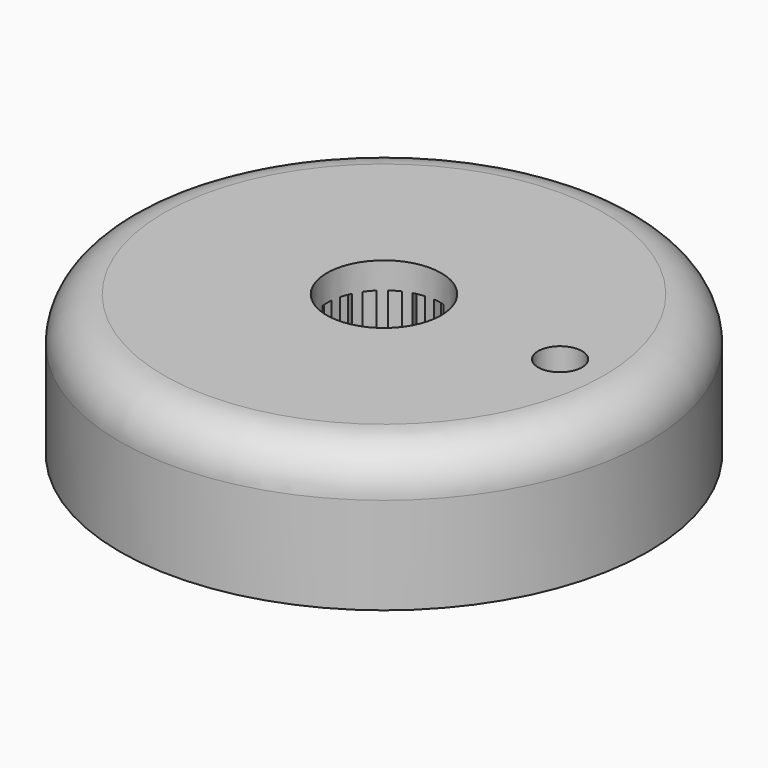
from build123d import *

# Parameters (mm, degrees)
F1_R      = 30
F2_DEPTH  = 16
F3_DEPTH  = 13
F4_R      = 6.5
F5_DEPTH  = 16.001
F6_R      = 2.5
F7_DEPTH  = 16.001
F8_R      = 5
F9_R      = 27.5
F9_R_2    = 10
F9_R_3    = 5
F10_DEPTH = 11
F11_DEPTH = 3


with BuildPart() as f2:
    # F1 (on Top) → F2 (new body)
    with BuildSketch(Plane.XY):
        Circle(F1_R)
    extrude(amount=F2_DEPTH)

    # F0 (on Top) → F3 (cut)
    with BuildSketch(Plane.XY):
        Polygon((0.5, 7.4833147735), (0.5, 6.4807406984), (-0.5, 6.4807406984), (-0.5, 7.4833147735), (-2.0895980578, 7.2030257501), (-1.746697532, 6.2609142888), (-2.6863901539, 5.9188941485), (-3.0292906797, 6.8610056098), (-4.4271597759, 6.0539455166), (-3.782717585, 5.2859292156), (-4.54876203, 4.6431416082), (-5.193204221, 5.4111579093), (-6.2307406865, 4.1746701064), (-5.3624860697, 3.6733830663), (-5.8624860722, 2.807357664), (-6.730740689, 3.308644704), (-7.2828023136, 1.7918678691), (-6.2954595919, 1.6177727054), (-6.4691077722, 0.6329649529), (-7.4564504939, 0.8070601166), (-7.456450498, -0.8070600785), (-6.4691077754, -0.6329649198), (-6.2954596002, -1.6177726732), (-7.2828023228, -1.7918678319), (-6.7307407059, -3.3086446696), (-5.8624860865, -2.807357634), (-5.3624860885, -3.6733830389), (-6.2307407079, -4.1746700745), (-5.1932042487, -5.4111578827), (-4.5487620538, -4.643141585), (-3.782717612, -5.2859291963), (-4.4271598069, -6.053945494), (-3.0292907148, -6.8610055943), (-2.6863901841, -5.9188941348), (-1.746697564, -6.2609142799), (-2.0895980946, -7.2030257394), (-0.5000000128, -7.4833147727), (-0.500000011, -6.4807406976), (0.499999989, -6.4807406993), (0.4999999872, -7.4833147744), (2.0895980701, -7.2030257465), (1.7466975426, -6.2609142858), (2.686390164, -5.9188941439), (3.0292906914, -6.8610056046), (4.4271597862, -6.0539455091), (3.782717594, -5.2859292092), (4.5487620379, -4.6431416005), (5.1932042302, -5.4111579004), (6.2307406937, -4.1746700957), (5.362486076, -3.6733830572), (5.862486077, -2.807357654), (6.7307406946, -3.3086446925), (7.2828023167, -1.7918678567), (6.2954595947, -1.6177726947), (6.4691077733, -0.6329649418), (7.4564504953, -0.8070601039), (7.4564504967, 0.8070600912), (6.4691077744, 0.6329649308), (6.2954595974, 1.6177726839), (7.2828023197, 1.7918678443), (6.7307407003, 3.3086446811), (5.8624860818, 2.807357644), (5.3624860822, 3.673383048), (6.2307407008, 4.1746700851), (5.1932042394, 5.4111578916), (4.5487620458, 4.6431415927), (3.782717603, 5.2859292027), (4.4271597966, 6.0539455016), (3.0292907031, 6.8610055995), (2.686390174, 5.9188941393), (1.7466975533, 6.2609142829), (2.0895980824, 7.203025743), align=None)
    extrude(amount=F3_DEPTH, mode=Mode.SUBTRACT)

    # F4 (on Top) → F5 (cut, through all)
    with BuildSketch(Plane.XY):
        Circle(F4_R)
    extrude(amount=F5_DEPTH, mode=Mode.SUBTRACT)

    # F6 (on Top) → F7 (cut, through all)
    with BuildSketch(Plane.XY):
        with Locations((20, 0)):
            Circle(F6_R)
    extrude(amount=F7_DEPTH, mode=Mode.SUBTRACT)

    # F8
    f8_edges = [f2.edges().sort_by_distance(p)[0] for p in [
        (-30, 0, 16),
    ]]
    fillet(f8_edges, radius=F8_R)

    # F9 (on Top) → F10 (cut)
    with BuildSketch(Plane.XY):
        Circle(F9_R)
        Circle(F9_R_2, mode=Mode.SUBTRACT)
        with Locations((20, 0)):
            Circle(F9_R_3, mode=Mode.SUBTRACT)
    extrude(amount=F10_DEPTH, mode=Mode.SUBTRACT)

    # F11 (cut): a face of the model
    f11_faces = [f2.faces().sort_by_distance(p)[0] for p in [
        (15.1414213562, 0, 0),
    ]]
    extrude(f11_faces, amount=-F11_DEPTH, mode=Mode.SUBTRACT)


solid = f2.part
